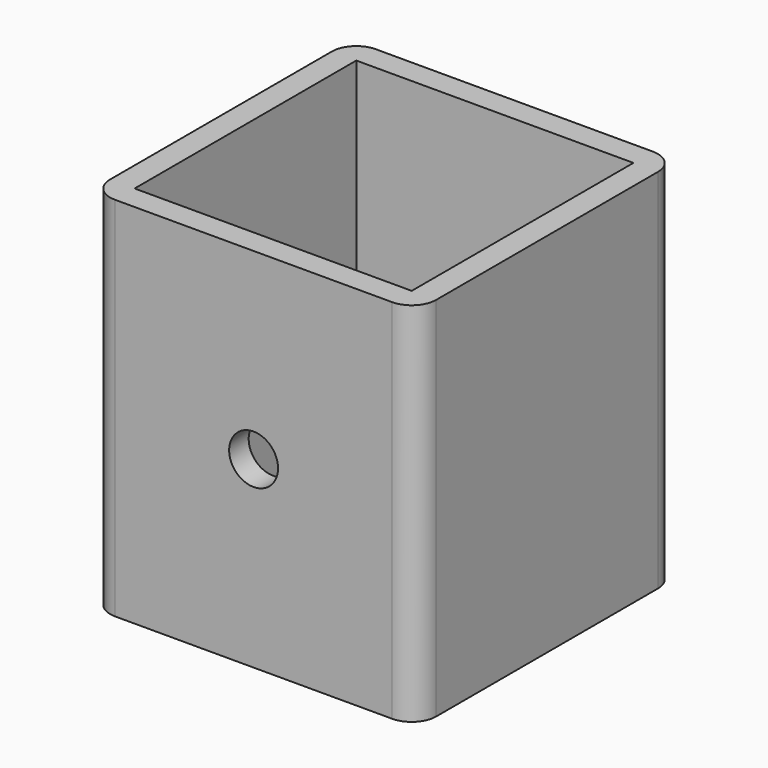
from build123d import *

# Parameters (mm, degrees)
SKETCH_W       = 40
SKETCH_H       = 40
SKETCH_W_2     = 34
SKETCH_H_2     = 34
PAD_DEPTH      = 22.5
FILLET_R       = 3
FILLET001_R    = 3
FILLET002_R    = 3
FILLET003_R    = 3
SKETCH001_R    = 3
HOLE_DEPTH     = 23.197418
HOLE_TIPS_R    = 3
SKETCH002_R    = 3
HOLE001_DEPTH  = 23.197418
HOLE001_TIPS_R = 3


with BuildPart() as part:
    # Sketch → Pad (new body, symmetric)
    with BuildSketch(Plane.XY):
        Rectangle(SKETCH_W, SKETCH_H)
        Rectangle(SKETCH_W_2, SKETCH_H_2, mode=Mode.SUBTRACT)
    extrude(amount=PAD_DEPTH, both=True)

    # Fillet
    fillet_edges = [part.edges().sort_by_distance(p)[0] for p in [
        (-20, -20, 0),
    ]]
    fillet(fillet_edges, radius=FILLET_R)

    # Fillet001
    fillet001_edges = [part.edges().sort_by_distance(p)[0] for p in [
        (20, -20, 0),
    ]]
    fillet(fillet001_edges, radius=FILLET001_R)

    # Fillet002
    fillet002_edges = [part.edges().sort_by_distance(p)[0] for p in [
        (20, 20, 0),
    ]]
    fillet(fillet002_edges, radius=FILLET002_R)

    # Fillet003
    fillet003_edges = [part.edges().sort_by_distance(p)[0] for p in [
        (-20, 20, 0),
    ]]
    fillet(fillet003_edges, radius=FILLET003_R)

    # Sketch001 (on Face2 of Fillet003) → Hole (cut)
    with BuildSketch(Plane(origin=(0, 20, 0), x_dir=(-1, 0, 0), z_dir=(0, 1, 0))):
        Circle(SKETCH001_R)
    extrude(amount=-HOLE_DEPTH, mode=Mode.SUBTRACT)

    # Hole tips → Hole tip 1 section 0
    with BuildSketch(Plane(origin=(0, -3.197418, 0), x_dir=(-1, 0, 0), z_dir=(0, 1, 0)), mode=Mode.PRIVATE) as hole_tip_1_s0:
        Circle(HOLE_TIPS_R)
    loft([hole_tip_1_s0.sketch, Vertex(0, -5, 0)], mode=Mode.SUBTRACT)

    # Sketch002 (on Face9 of Hole) → Hole001 (cut)
    with BuildSketch(Plane.XZ.offset(20)):
        Circle(SKETCH002_R)
    extrude(amount=-HOLE001_DEPTH, mode=Mode.SUBTRACT)

    # Hole001 tips → Hole001 tip 1 section 0
    with BuildSketch(Plane.XZ.offset(-3.197418), mode=Mode.PRIVATE) as hole001_tip_1_s0:
        Circle(HOLE001_TIPS_R)
    loft([hole001_tip_1_s0.sketch, Vertex(0, 5, 0)], mode=Mode.SUBTRACT)


solid = part.part
